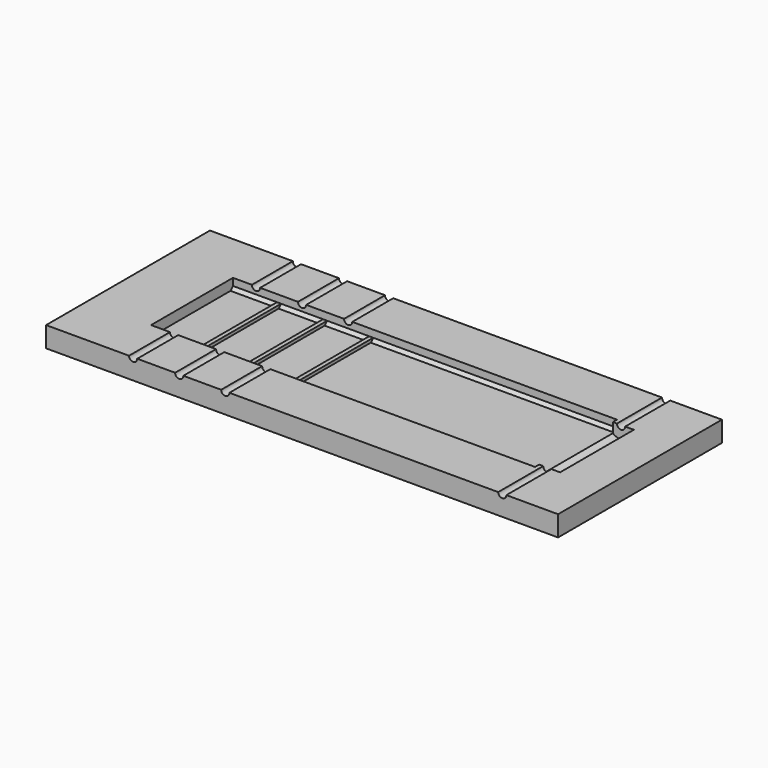
from build123d import *

# Parameters (mm, degrees)
F0_W      = 100
F0_H      = 40
F1_DEPTH  = 4
F2_W      = 75
F2_H      = 20
F3_DEPTH  = 2
F5_R      = 2.5
F6_DEPTH  = 9
F7_DEPTH  = 40.001
F9_SIZE   = 0.6
F8_W      = 0.8
F8_H      = 20
F10_DEPTH = 0.6


with BuildPart() as f1:
    # F0 (on Top) → F1 (new body)
    with BuildSketch(Plane.XY):
        Rectangle(F0_W, F0_H)
    extrude(amount=F1_DEPTH)

    # F2 (on face) → F3 (cut)
    with BuildSketch(Plane.XY.offset(4)):
        Rectangle(F2_W, F2_H)
    extrude(amount=-F3_DEPTH, mode=Mode.SUBTRACT)

    # F5 (on Front) → F6 (cut, symmetric)
    with BuildSketch(Plane.XZ):
        with Locations((39.1, 4)):
            Circle(F5_R)
    extrude(amount=F6_DEPTH, both=True, mode=Mode.SUBTRACT)

    # F4 (on face) → F7 (cut, through all)
    with BuildSketch(Plane.XZ.offset(20)):
        with BuildLine():
            ThreePointArc((-33.8, 4), (-33, 3.2), (-32.2, 4))
            Line((-32.2, 4), (-33.8, 4))
        make_face()
        with BuildLine():
            Line((-23.2, 4), (-24.8, 4))
            ThreePointArc((-24.8, 4), (-24, 3.2), (-23.2, 4))
        make_face()
        with BuildLine():
            Line((-14.2, 4), (-15.8, 4))
            ThreePointArc((-15.8, 4), (-15, 3.2), (-14.2, 4))
        make_face()
        with BuildLine():
            Line((39.9, 4), (38.3, 4))
            ThreePointArc((38.3, 4), (39.1, 3.2), (39.9, 4))
        make_face()
    extrude(amount=-F7_DEPTH, mode=Mode.SUBTRACT)

    # F9
    f9_edges = [f1.edges().sort_by_distance(p)[0] for p in [
        (0, 10, 2),
        (0, -10, 2),
    ]]
    chamfer(f9_edges, length=F9_SIZE)

    # F8 (on face) → F10 (join)
    with BuildSketch(Plane.XY.offset(2)):
        with Locations((-28.5, 0)):
            Rectangle(F8_W, F8_H)
        with Locations((-19.5, 0)):
            Rectangle(F8_W, F8_H)
        with Locations((-10.5, 0)):
            Rectangle(F8_W, F8_H)
    extrude(amount=F10_DEPTH)


solid = f1.part
